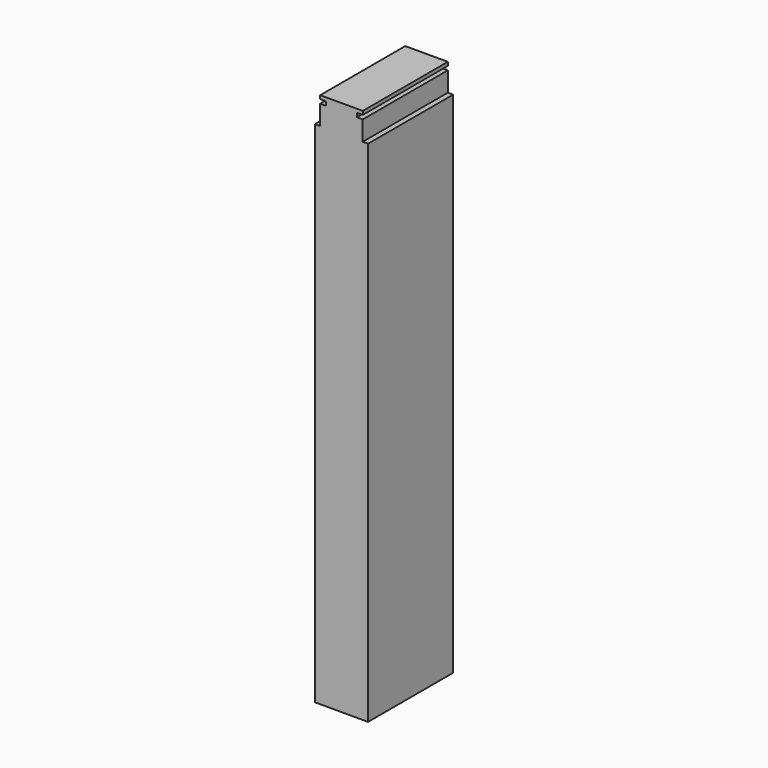
from build123d import *

# Parameters (mm, degrees)
F0_W     = 3.6851118784
F0_H     = 0.9433352731
F1_DEPTH = 25.4


with BuildPart() as f1:
    # F0 (on Front) → F1 (new body)
    with BuildSketch(Plane.XZ):
        Polygon((0, 67.3027411103), (0, 66.4510801435), (3.6851118784, 66.4510801435), (5.0919302739, 66.4510801435), (5.0919302739, 67.3027411103), align=None)
        with Locations((-1.8425559392, 65.9794125069)):
            Rectangle(F0_W, F0_H)
        Polygon((5.08, 60.8059626286), (0, 60.8059626286), (0, -60.8059626286), (6.35, -60.8059626286), (6.35, 60.8059626286), align=None)
        Polygon((0, 65.5077448704), (0, 60.8059626286), (5.08, 60.8059626286), (5.08, 65.5077448704), (3.6851118784, 65.5077448704), align=None)
        with Locations((1.8425559392, 65.9794125069)):
            Rectangle(F0_W, F0_H)
        Polygon((-5.08, 60.8059626286), (-6.35, 60.8059626286), (-6.35, -60.8059626286), (0, -60.8059626286), (0, 60.8059626286), align=None)
        Polygon((-5.08, 65.5077448704), (-5.08, 60.8059626286), (0, 60.8059626286), (0, 65.5077448704), (-3.6851118784, 65.5077448704), align=None)
        Polygon((-3.6851118784, 66.4510801435), (0, 66.4510801435), (0, 67.3027411103), (-5.08, 67.3027411103), (-5.08, 66.4510801435), align=None)
    extrude(amount=F1_DEPTH)


solid = f1.part
